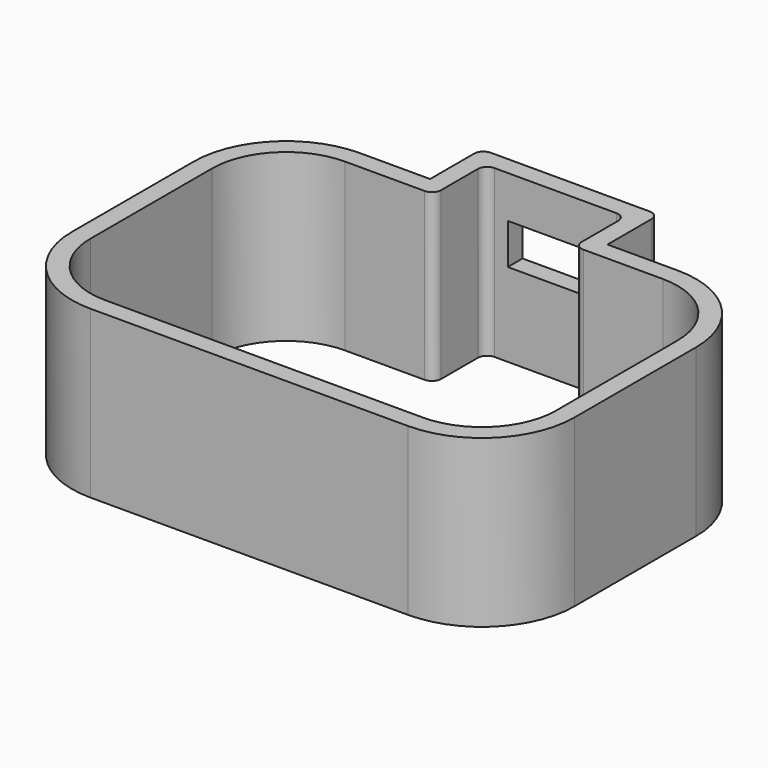
from build123d import *

# Parameters (mm, degrees)
F1_DEPTH = 28.575
F2_W     = 16.383
F2_H     = 6.985
F3_DEPTH = 3.175
F4_R     = 1.5875


with BuildPart() as f1:
    # F0 (on Top) → F1 (new body)
    with BuildSketch(Plane.XY):
        with BuildLine():
            Line((-15.24, 40.005), (-15.24, 28.956))
            Line((-15.24, 28.956), (-27.305, 28.956))
            ThreePointArc((-27.305, 28.956), (-38.53032, 24.30632), (-43.18, 13.081))
            Line((-43.18, 13.081), (-43.18, -13.081))
            ThreePointArc((-43.18, -13.081), (-38.53032, -24.30632), (-27.305, -28.956))
            Line((-27.305, -28.956), (27.305, -28.956))
            ThreePointArc((27.305, -28.956), (38.53032, -24.30632), (43.18, -13.081))
            Line((43.18, -13.081), (43.18, 13.081))
            ThreePointArc((43.18, 13.081), (38.53032, 24.30632), (27.305, 28.956))
            Line((27.305, 28.956), (15.24, 28.956))
            Line((15.24, 28.956), (15.24, 40.005))
            Line((15.24, 40.005), (-15.24, 40.005))
        make_face()
        with BuildLine():
            Line((12.065, 25.781), (27.305, 25.781))
            ThreePointArc((27.305, 25.781), (36.285256, 22.061256), (40.005, 13.081))
            Line((40.005, 13.081), (40.005, -13.081))
            ThreePointArc((40.005, -13.081), (36.285256, -22.061256), (27.305, -25.781))
            Line((27.305, -25.781), (-27.305, -25.781))
            ThreePointArc((-27.305, -25.781), (-36.285256, -22.061256), (-40.005, -13.081))
            Line((-40.005, -13.081), (-40.005, 13.081))
            ThreePointArc((-40.005, 13.081), (-36.285256, 22.061256), (-27.305, 25.781))
            Line((-27.305, 25.781), (-12.065, 25.781))
            Line((-12.065, 25.781), (-12.065, 36.83))
            Line((-12.065, 36.83), (12.065, 36.83))
            Line((12.065, 36.83), (12.065, 25.781))
        make_face(mode=Mode.SUBTRACT)
    extrude(amount=F1_DEPTH)

    # F2 (on face) → F3 (cut, through all)
    with BuildSketch(Plane(origin=(0, 40.005, 0), x_dir=(-1, 0, 0), z_dir=(0, 1, 0))):
        with Locations((0, 17.8435)):
            Rectangle(F2_W, F2_H)
    extrude(amount=-F3_DEPTH, mode=Mode.SUBTRACT)

    # F4
    f4_edges = [f1.edges().sort_by_distance(p)[0] for p in [
        (-12.065, 25.781, 14.2875),
        (-12.065, 36.83, 14.2875),
        (12.065, 25.781, 14.2875),
        (12.065, 36.83, 14.2875),
        (15.24, 40.005, 14.2875),
        (-15.24, 40.005, 14.2875),
    ]]
    fillet(f4_edges, radius=F4_R)


with BuildPart() as f5_1:
    # F5: copy of F1
    add(f1.part)


solid = f1.part
